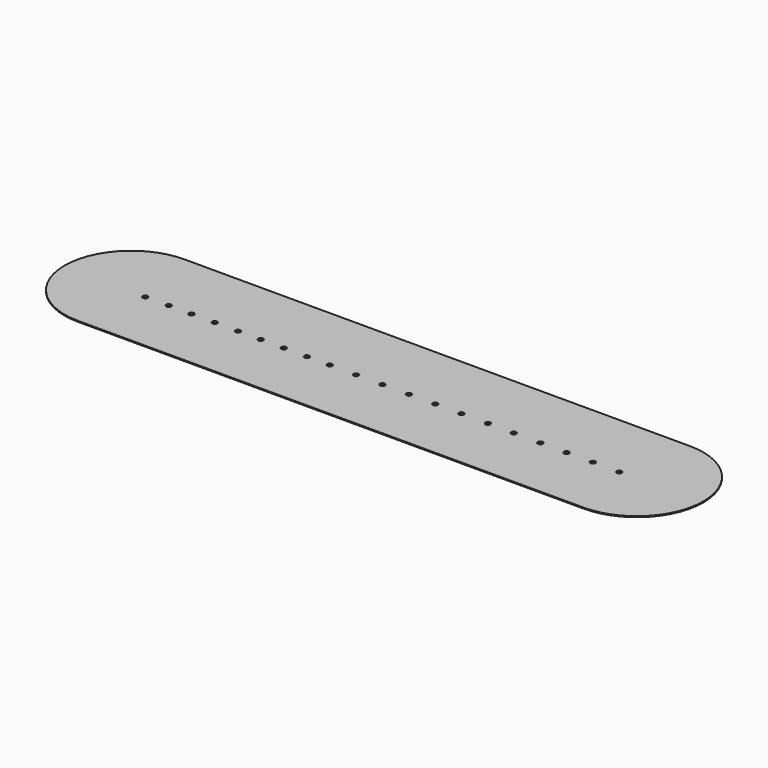
from build123d import *

# Parameters (mm, degrees)
F1_DEPTH       = 0.9144
F3_D           = 3.556
F3_CSINK_D     = 4.826
F3_CSINK_ANGLE = 100


with BuildPart() as f1:
    # F0 (on Top) → F1 (new body)
    with BuildSketch(Plane.XY):
        with BuildLine():
            ThreePointArc((-241.3, 63.5), (-304.8, 0), (-241.3, -63.5))
            Line((-241.3, -63.5), (241.3, -63.5))
            ThreePointArc((241.3, -63.5), (304.8, 0), (241.3, 63.5))
            Line((241.3, 63.5), (-241.3, 63.5))
        make_face()
    extrude(amount=F1_DEPTH)

    # F3 (through all)
    with Locations(Plane.XY.offset(0.9144)):
        with Locations((-226.15525, -2.056472), (-203.80325, -2.056472), (-182.08625, -2.056472), (-159.91205, -2.056472), (-137.66165, -2.056472), (-116.04625, -2.056472), (-93.99905, -2.056472), (-71.92645, -2.056472), (-50.18405, -2.056472), (-24.96185, -2.056472), (0.1778, -2.056472), (25.4508, -2.056472), (50.546, -2.056472), (75.565, -2.056472), (100.8634, -2.056472), (125.5268, -2.056472), (150.8252, -2.056472), (175.8696, -2.056472), (200.9394, -2.056472), (226.1362, -2.056472)):
            CounterSinkHole(F3_D / 2, F3_CSINK_D / 2, counter_sink_angle=F3_CSINK_ANGLE)


solid = f1.part
